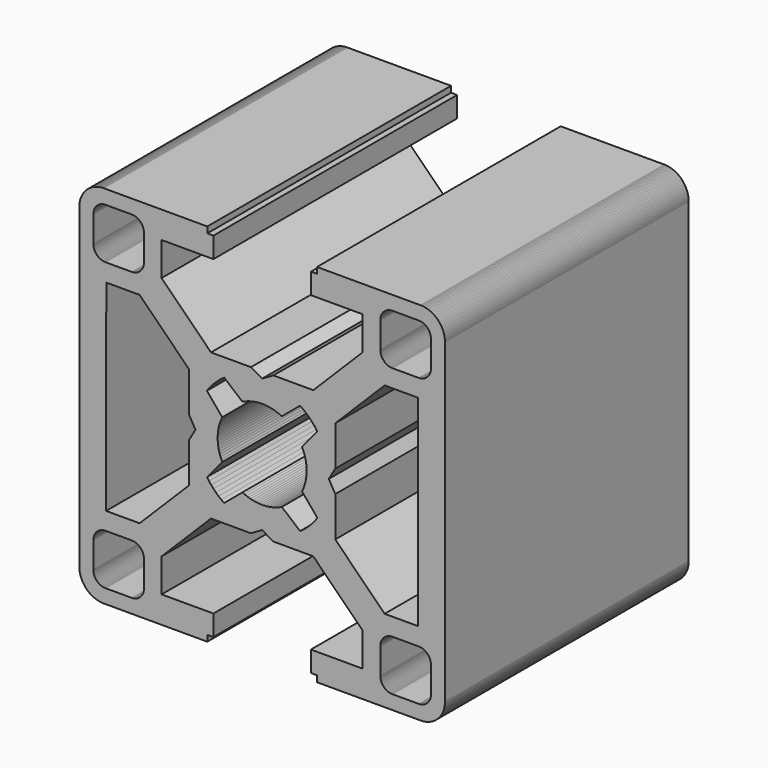
from build123d import *

# Parameters (mm, degrees)
F1_DEPTH = 25


with BuildPart() as f1:
    # F0 (on Front) → F1 (new body)
    with BuildSketch(Plane.XZ):
        Polygon((-15, -13), (-14.997986, -13.089729), (-14.991948, -13.179278), (-14.981899, -13.268467), (-14.967859, -13.357114), (-14.949856, -13.445042), (-14.927926, -13.532074), (-14.902113, -13.618034), (-14.87247, -13.702749), (-14.839056, -13.78605), (-14.801938, -13.867767), (-14.761191, -13.947738), (-14.716898, -14.025799), (-14.669147, -14.101794), (-14.618034, -14.17557), (-14.563663, -14.24698), (-14.506143, -14.315878), (-14.44559, -14.382125), (-14.382125, -14.44559), (-14.315878, -14.506143), (-14.24698, -14.563663), (-14.17557, -14.618034), (-14.101794, -14.669147), (-14.025799, -14.716898), (-13.947738, -14.761191), (-13.867767, -14.801938), (-13.78605, -14.839056), (-13.702749, -14.87247), (-13.618034, -14.902113), (-13.532074, -14.927926), (-13.445042, -14.949856), (-13.357114, -14.967859), (-13.268467, -14.981899), (-13.179278, -14.991948), (-13.089729, -14.997986), (-13, -15), (-4.5, -15), (-4.5, -14.5), (-4, -14.5), (-4, -12.8), (-8.25, -12.803123), (-8.25, -10.053123), (-4.196877, -6), (-0.919615, -6), (0, -5.46906), (0.919615, -6), (4.196877, -6), (8.25, -10.053123), (8.25, -12.803123), (4, -12.8), (4, -14.5), (4.5, -14.5), (4.5, -15), (13, -15), (13.089729, -14.997986), (13.179278, -14.991948), (13.268467, -14.981899), (13.357114, -14.967859), (13.445042, -14.949856), (13.532074, -14.927926), (13.618034, -14.902113), (13.702749, -14.87247), (13.78605, -14.839056), (13.867767, -14.801938), (13.947738, -14.761191), (14.025799, -14.716898), (14.101794, -14.669147), (14.17557, -14.618034), (14.24698, -14.563663), (14.315878, -14.506143), (14.382125, -14.44559), (14.44559, -14.382125), (14.506143, -14.315878), (14.563663, -14.24698), (14.618034, -14.17557), (14.669147, -14.101794), (14.716898, -14.025799), (14.761191, -13.947738), (14.801938, -13.867767), (14.839056, -13.78605), (14.87247, -13.702749), (14.902113, -13.618034), (14.927926, -13.532074), (14.949856, -13.445042), (14.967859, -13.357114), (14.981899, -13.268467), (14.991948, -13.179278), (14.997986, -13.089729), (15, -13), (15, 13), (14.997986, 13.089729), (14.991948, 13.179278), (14.981899, 13.268467), (14.967859, 13.357114), (14.949856, 13.445042), (14.927926, 13.532074), (14.902113, 13.618034), (14.87247, 13.702749), (14.839056, 13.78605), (14.801938, 13.867767), (14.761191, 13.947738), (14.716898, 14.025799), (14.669147, 14.101794), (14.618034, 14.17557), (14.563663, 14.24698), (14.506143, 14.315878), (14.44559, 14.382125), (14.382125, 14.44559), (14.315878, 14.506143), (14.24698, 14.563663), (14.17557, 14.618034), (14.101794, 14.669147), (14.025799, 14.716898), (13.947738, 14.761191), (13.867767, 14.801938), (13.78605, 14.839056), (13.702749, 14.87247), (13.618034, 14.902113), (13.532074, 14.927926), (13.445042, 14.949856), (13.357114, 14.967859), (13.268467, 14.981899), (13.179278, 14.991948), (13.089729, 14.997986), (13, 15), (4.5, 15), (4.5, 14.5), (4, 14.5), (4, 12.8), (8.25, 12.803123), (8.25, 10.053123), (4.196877, 6), (0.919615, 6), (0, 5.46906), (-0.919615, 6), (-4.196877, 6), (-8.25, 10.053123), (-8.25, 12.803123), (-4, 12.8), (-4, 14.5), (-4.5, 14.5), (-4.5, 15), (-13, 15), (-13.089729, 14.997986), (-13.179278, 14.991948), (-13.268467, 14.981899), (-13.357114, 14.967859), (-13.445042, 14.949856), (-13.532074, 14.927926), (-13.618034, 14.902113), (-13.702749, 14.87247), (-13.78605, 14.839056), (-13.867767, 14.801938), (-13.947738, 14.761191), (-14.025799, 14.716898), (-14.101794, 14.669147), (-14.17557, 14.618034), (-14.24698, 14.563663), (-14.315878, 14.506143), (-14.382125, 14.44559), (-14.44559, 14.382125), (-14.506143, 14.315878), (-14.563663, 14.24698), (-14.618034, 14.17557), (-14.669147, 14.101794), (-14.716898, 14.025799), (-14.761191, 13.947738), (-14.801938, 13.867767), (-14.839056, 13.78605), (-14.87247, 13.702749), (-14.902113, 13.618034), (-14.927926, 13.532074), (-14.949856, 13.445042), (-14.967859, 13.357114), (-14.981899, 13.268467), (-14.991948, 13.179278), (-14.997986, 13.089729), (-15, 13), align=None)
        Polygon((-13.845974, -12.939639), (-13.848993, -12.894865), (-13.85, -12.85), (-13.85, -10.7), (-13.848993, -10.655135), (-13.845974, -10.610361), (-13.84095, -10.565766), (-13.83393, -10.521443), (-13.824928, -10.477479), (-13.813963, -10.433963), (-13.801057, -10.390983), (-13.786235, -10.348625), (-13.769527, -10.306975), (-13.750969, -10.266116), (-13.730596, -10.226131), (-13.708448, -10.1871), (-13.684573, -10.149103), (-13.659017, -10.112215), (-13.631831, -10.07651), (-13.603071, -10.042061), (-13.572795, -10.008937), (-13.541062, -9.977205), (-13.507938, -9.946929), (-13.47349, -9.918168), (-13.437785, -9.890983), (-13.400897, -9.865427), (-13.362899, -9.841551), (-13.323869, -9.819405), (-13.283884, -9.799031), (-13.243025, -9.780472), (-13.201375, -9.763765), (-13.159017, -9.748943), (-13.116036, -9.736037), (-13.072521, -9.725072), (-13.028557, -9.71607), (-12.984233, -9.70905), (-12.939639, -9.704025), (-12.894865, -9.701007), (-12.85, -9.7), (-10.7, -9.7), (-10.655135, -9.701007), (-10.610361, -9.704025), (-10.565766, -9.70905), (-10.521443, -9.71607), (-10.477479, -9.725072), (-10.433963, -9.736037), (-10.390983, -9.748943), (-10.348625, -9.763765), (-10.306975, -9.780472), (-10.266116, -9.799031), (-10.226131, -9.819405), (-10.1871, -9.841551), (-10.149103, -9.865427), (-10.112215, -9.890983), (-10.07651, -9.918168), (-10.042061, -9.946929), (-10.008937, -9.977205), (-9.977205, -10.008937), (-9.946929, -10.042061), (-9.918168, -10.07651), (-9.890983, -10.112215), (-9.865427, -10.149103), (-9.841551, -10.1871), (-9.819405, -10.226131), (-9.799031, -10.266116), (-9.780472, -10.306975), (-9.763765, -10.348625), (-9.748943, -10.390983), (-9.736037, -10.433963), (-9.725072, -10.477479), (-9.71607, -10.521443), (-9.70905, -10.565766), (-9.704025, -10.610361), (-9.701007, -10.655135), (-9.7, -10.7), (-9.7, -12.85), (-9.701007, -12.894865), (-9.704025, -12.939639), (-9.70905, -12.984233), (-9.71607, -13.028557), (-9.725072, -13.072521), (-9.736037, -13.116036), (-9.748943, -13.159017), (-9.763765, -13.201375), (-9.780472, -13.243025), (-9.799031, -13.283884), (-9.819405, -13.323869), (-9.841551, -13.362899), (-9.865427, -13.400897), (-9.890983, -13.437785), (-9.918168, -13.47349), (-9.946929, -13.507938), (-9.977205, -13.541062), (-10.008937, -13.572795), (-10.042061, -13.603071), (-10.07651, -13.631831), (-10.112215, -13.659017), (-10.149103, -13.684573), (-10.1871, -13.708448), (-10.226131, -13.730596), (-10.266116, -13.750969), (-10.306975, -13.769527), (-10.348625, -13.786235), (-10.390983, -13.801057), (-10.433963, -13.813963), (-10.477479, -13.824928), (-10.521443, -13.83393), (-10.565766, -13.84095), (-10.610361, -13.845974), (-10.655135, -13.848993), (-10.7, -13.85), (-12.85, -13.85), (-12.894865, -13.848993), (-12.939639, -13.845974), (-12.984233, -13.84095), (-13.028557, -13.83393), (-13.072521, -13.824928), (-13.116036, -13.813963), (-13.159017, -13.801057), (-13.201375, -13.786235), (-13.243025, -13.769527), (-13.283884, -13.750969), (-13.323869, -13.730596), (-13.362899, -13.708448), (-13.400897, -13.684573), (-13.437785, -13.659017), (-13.47349, -13.631831), (-13.507938, -13.603071), (-13.541062, -13.572795), (-13.572795, -13.541062), (-13.603071, -13.507938), (-13.631831, -13.47349), (-13.659017, -13.437785), (-13.684573, -13.400897), (-13.708448, -13.362899), (-13.730596, -13.323869), (-13.750969, -13.283884), (-13.769527, -13.243025), (-13.786235, -13.201375), (-13.801057, -13.159017), (-13.813963, -13.116036), (-13.824928, -13.072521), (-13.83393, -13.028557), (-13.84095, -12.984233), align=None, mode=Mode.SUBTRACT)
        Polygon((9.704025, -12.939639), (9.701007, -12.894865), (9.7, -12.85), (9.7, -10.7), (9.701007, -10.655135), (9.704025, -10.610361), (9.70905, -10.565766), (9.71607, -10.521443), (9.725072, -10.477479), (9.736037, -10.433963), (9.748943, -10.390983), (9.763765, -10.348625), (9.780472, -10.306975), (9.799031, -10.266116), (9.819405, -10.226131), (9.841551, -10.1871), (9.865427, -10.149103), (9.890983, -10.112215), (9.918168, -10.07651), (9.946929, -10.042061), (9.977205, -10.008937), (10.008937, -9.977205), (10.042061, -9.946929), (10.07651, -9.918168), (10.112215, -9.890983), (10.149103, -9.865427), (10.1871, -9.841551), (10.226131, -9.819405), (10.266116, -9.799031), (10.306975, -9.780472), (10.348625, -9.763765), (10.390983, -9.748943), (10.433963, -9.736037), (10.477479, -9.725072), (10.521443, -9.71607), (10.565766, -9.70905), (10.610361, -9.704025), (10.655135, -9.701007), (10.7, -9.7), (12.85, -9.7), (12.894865, -9.701007), (12.939639, -9.704025), (12.984233, -9.70905), (13.028557, -9.71607), (13.072521, -9.725072), (13.116036, -9.736037), (13.159017, -9.748943), (13.201375, -9.763765), (13.243025, -9.780472), (13.283884, -9.799031), (13.323869, -9.819405), (13.362899, -9.841551), (13.400897, -9.865427), (13.437785, -9.890983), (13.47349, -9.918168), (13.507938, -9.946929), (13.541062, -9.977205), (13.572795, -10.008937), (13.603071, -10.042061), (13.631831, -10.07651), (13.659017, -10.112215), (13.684573, -10.149103), (13.708448, -10.1871), (13.730596, -10.226131), (13.750969, -10.266116), (13.769527, -10.306975), (13.786235, -10.348625), (13.801057, -10.390983), (13.813963, -10.433963), (13.824928, -10.477479), (13.83393, -10.521443), (13.84095, -10.565766), (13.845974, -10.610361), (13.848993, -10.655135), (13.85, -10.7), (13.85, -12.85), (13.848993, -12.894865), (13.845974, -12.939639), (13.84095, -12.984233), (13.83393, -13.028557), (13.824928, -13.072521), (13.813963, -13.116036), (13.801057, -13.159017), (13.786235, -13.201375), (13.769527, -13.243025), (13.750969, -13.283884), (13.730596, -13.323869), (13.708448, -13.362899), (13.684573, -13.400897), (13.659017, -13.437785), (13.631831, -13.47349), (13.603071, -13.507938), (13.572795, -13.541062), (13.541062, -13.572795), (13.507938, -13.603071), (13.47349, -13.631831), (13.437785, -13.659017), (13.400897, -13.684573), (13.362899, -13.708448), (13.323869, -13.730596), (13.283884, -13.750969), (13.243025, -13.769527), (13.201375, -13.786235), (13.159017, -13.801057), (13.116036, -13.813963), (13.072521, -13.824928), (13.028557, -13.83393), (12.984233, -13.84095), (12.939639, -13.845974), (12.894865, -13.848993), (12.85, -13.85), (10.7, -13.85), (10.655135, -13.848993), (10.610361, -13.845974), (10.565766, -13.84095), (10.521443, -13.83393), (10.477479, -13.824928), (10.433963, -13.813963), (10.390983, -13.801057), (10.348625, -13.786235), (10.306975, -13.769527), (10.266116, -13.750969), (10.226131, -13.730596), (10.1871, -13.708448), (10.149103, -13.684573), (10.112215, -13.659017), (10.07651, -13.631831), (10.042061, -13.603071), (10.008937, -13.572795), (9.977205, -13.541062), (9.946929, -13.507938), (9.918168, -13.47349), (9.890983, -13.437785), (9.865427, -13.400897), (9.841551, -13.362899), (9.819405, -13.323869), (9.799031, -13.283884), (9.780472, -13.243025), (9.763765, -13.201375), (9.748943, -13.159017), (9.736037, -13.116036), (9.725072, -13.072521), (9.71607, -13.028557), (9.70905, -12.984233), align=None, mode=Mode.SUBTRACT)
        Polygon((-6, 0.919615), (-5.46906, 0), (-6, -0.919615), (-6, -4.196877), (-10.053123, -8.25), (-12.803123, -8.25), (-12.790998, 8.25), (-10.053123, 8.25), (-6, 4.196877), align=None, mode=Mode.SUBTRACT)
        Polygon((-13.845974, 10.610361), (-13.848993, 10.655135), (-13.85, 10.7), (-13.85, 12.85), (-13.848993, 12.894865), (-13.845974, 12.939639), (-13.84095, 12.984233), (-13.83393, 13.028557), (-13.824928, 13.072521), (-13.813963, 13.116036), (-13.801057, 13.159017), (-13.786235, 13.201375), (-13.769527, 13.243025), (-13.750969, 13.283884), (-13.730596, 13.323869), (-13.708448, 13.362899), (-13.684573, 13.400897), (-13.659017, 13.437785), (-13.631831, 13.47349), (-13.603071, 13.507938), (-13.572795, 13.541062), (-13.541062, 13.572795), (-13.507938, 13.603071), (-13.47349, 13.631831), (-13.437785, 13.659017), (-13.400897, 13.684573), (-13.362899, 13.708448), (-13.323869, 13.730596), (-13.283884, 13.750969), (-13.243025, 13.769527), (-13.201375, 13.786235), (-13.159017, 13.801057), (-13.116036, 13.813963), (-13.072521, 13.824928), (-13.028557, 13.83393), (-12.984233, 13.84095), (-12.939639, 13.845974), (-12.894865, 13.848993), (-12.85, 13.85), (-10.7, 13.85), (-10.655135, 13.848993), (-10.610361, 13.845974), (-10.565766, 13.84095), (-10.521443, 13.83393), (-10.477479, 13.824928), (-10.433963, 13.813963), (-10.390983, 13.801057), (-10.348625, 13.786235), (-10.306975, 13.769527), (-10.266116, 13.750969), (-10.226131, 13.730596), (-10.1871, 13.708448), (-10.149103, 13.684573), (-10.112215, 13.659017), (-10.07651, 13.631831), (-10.042061, 13.603071), (-10.008937, 13.572795), (-9.977205, 13.541062), (-9.946929, 13.507938), (-9.918168, 13.47349), (-9.890983, 13.437785), (-9.865427, 13.400897), (-9.841551, 13.362899), (-9.819405, 13.323869), (-9.799031, 13.283884), (-9.780472, 13.243025), (-9.763765, 13.201375), (-9.748943, 13.159017), (-9.736037, 13.116036), (-9.725072, 13.072521), (-9.71607, 13.028557), (-9.70905, 12.984233), (-9.704025, 12.939639), (-9.701007, 12.894865), (-9.7, 12.85), (-9.7, 10.7), (-9.701007, 10.655135), (-9.704025, 10.610361), (-9.70905, 10.565766), (-9.71607, 10.521443), (-9.725072, 10.477479), (-9.736037, 10.433963), (-9.748943, 10.390983), (-9.763765, 10.348625), (-9.780472, 10.306975), (-9.799031, 10.266116), (-9.819405, 10.226131), (-9.841551, 10.1871), (-9.865427, 10.149103), (-9.890983, 10.112215), (-9.918168, 10.07651), (-9.946929, 10.042061), (-9.977205, 10.008937), (-10.008937, 9.977205), (-10.042061, 9.946929), (-10.07651, 9.918168), (-10.112215, 9.890983), (-10.149103, 9.865427), (-10.1871, 9.841551), (-10.226131, 9.819405), (-10.266116, 9.799031), (-10.306975, 9.780472), (-10.348625, 9.763765), (-10.390983, 9.748943), (-10.433963, 9.736037), (-10.477479, 9.725072), (-10.521443, 9.71607), (-10.565766, 9.70905), (-10.610361, 9.704025), (-10.655135, 9.701007), (-10.7, 9.7), (-12.85, 9.7), (-12.894865, 9.701007), (-12.939639, 9.704025), (-12.984233, 9.70905), (-13.028557, 9.71607), (-13.072521, 9.725072), (-13.116036, 9.736037), (-13.159017, 9.748943), (-13.201375, 9.763765), (-13.243025, 9.780472), (-13.283884, 9.799031), (-13.323869, 9.819405), (-13.362899, 9.841551), (-13.400897, 9.865427), (-13.437785, 9.890983), (-13.47349, 9.918168), (-13.507938, 9.946929), (-13.541062, 9.977205), (-13.572795, 10.008937), (-13.603071, 10.042061), (-13.631831, 10.07651), (-13.659017, 10.112215), (-13.684573, 10.149103), (-13.708448, 10.1871), (-13.730596, 10.226131), (-13.750969, 10.266116), (-13.769527, 10.306975), (-13.786235, 10.348625), (-13.801057, 10.390983), (-13.813963, 10.433963), (-13.824928, 10.477479), (-13.83393, 10.521443), (-13.84095, 10.565766), align=None, mode=Mode.SUBTRACT)
        Polygon((-3.623419, -0.439702), (-3.640423, -0.264232), (-3.648936, -0.088146), (-3.648936, 0.088146), (-3.640423, 0.264232), (-3.623419, 0.439702), (-3.597961, 0.614146), (-3.564111, 0.787157), (-3.521945, 0.958332), (-3.471564, 1.127272), (-3.413085, 1.293582), (-3.346643, 1.456874), (-3.272394, 1.616767), (-4.531372, 3.117158), (-4.362428, 3.349511), (-4.181583, 3.572725), (-3.98933, 3.786192), (-3.786192, 3.98933), (-3.572725, 4.181583), (-3.349511, 4.362428), (-3.117158, 4.531372), (-1.616767, 3.272394), (-1.456874, 3.346643), (-1.293582, 3.413085), (-1.127272, 3.471564), (-0.958332, 3.521945), (-0.787157, 3.564111), (-0.614146, 3.597961), (-0.439702, 3.623419), (-0.264232, 3.640423), (-0.088146, 3.648936), (0.088146, 3.648936), (0.264232, 3.640423), (0.439702, 3.623419), (0.614146, 3.597961), (0.787157, 3.564111), (0.958332, 3.521945), (1.127272, 3.471564), (1.293582, 3.413085), (1.456874, 3.346643), (1.616767, 3.272394), (3.117158, 4.531372), (3.349511, 4.362428), (3.572725, 4.181583), (3.786192, 3.98933), (3.98933, 3.786192), (4.181583, 3.572725), (4.362428, 3.349511), (4.531372, 3.117158), (3.272394, 1.616767), (3.346643, 1.456874), (3.413085, 1.293582), (3.471564, 1.127272), (3.521945, 0.958332), (3.564111, 0.787157), (3.597961, 0.614146), (3.623419, 0.439702), (3.640423, 0.264232), (3.648936, 0.088146), (3.648936, -0.088146), (3.640423, -0.264232), (3.623419, -0.439702), (3.597961, -0.614146), (3.564111, -0.787157), (3.521945, -0.958332), (3.471564, -1.127272), (3.413085, -1.293582), (3.346643, -1.456874), (3.272394, -1.616767), (4.531372, -3.117158), (4.362428, -3.349511), (4.181583, -3.572725), (3.98933, -3.786192), (3.786192, -3.98933), (3.572725, -4.181583), (3.349511, -4.362428), (3.117158, -4.531372), (1.616767, -3.272394), (1.456874, -3.346643), (1.293582, -3.413085), (1.127272, -3.471564), (0.958332, -3.521945), (0.787157, -3.564111), (0.614146, -3.597961), (0.439702, -3.623419), (0.264232, -3.640423), (0.088146, -3.648936), (-0.088146, -3.648936), (-0.264232, -3.640423), (-0.439702, -3.623419), (-0.614146, -3.597961), (-0.787157, -3.564111), (-0.958332, -3.521945), (-1.127272, -3.471564), (-1.293582, -3.413085), (-1.456874, -3.346643), (-1.616767, -3.272394), (-3.117158, -4.531372), (-3.349511, -4.362428), (-3.572725, -4.181583), (-3.786192, -3.98933), (-3.98933, -3.786192), (-4.181583, -3.572725), (-4.362428, -3.349511), (-4.531372, -3.117158), (-3.272394, -1.616767), (-3.346643, -1.456874), (-3.413085, -1.293582), (-3.471564, -1.127272), (-3.521945, -0.958332), (-3.564111, -0.787157), (-3.597961, -0.614146), align=None, mode=Mode.SUBTRACT)
        Polygon((6, -4.196877), (6, -0.919615), (5.46906, 0), (6, 0.919615), (6, 4.196877), (10.053123, 8.25), (12.803123, 8.25), (12.790998, -8.25), (10.053123, -8.25), align=None, mode=Mode.SUBTRACT)
        Polygon((9.704025, 10.610361), (9.701007, 10.655135), (9.7, 10.7), (9.7, 12.85), (9.701007, 12.894865), (9.704025, 12.939639), (9.70905, 12.984233), (9.71607, 13.028557), (9.725072, 13.072521), (9.736037, 13.116036), (9.748943, 13.159017), (9.763765, 13.201375), (9.780472, 13.243025), (9.799031, 13.283884), (9.819405, 13.323869), (9.841551, 13.362899), (9.865427, 13.400897), (9.890983, 13.437785), (9.918168, 13.47349), (9.946929, 13.507938), (9.977205, 13.541062), (10.008937, 13.572795), (10.042061, 13.603071), (10.07651, 13.631831), (10.112215, 13.659017), (10.149103, 13.684573), (10.1871, 13.708448), (10.226131, 13.730596), (10.266116, 13.750969), (10.306975, 13.769527), (10.348625, 13.786235), (10.390983, 13.801057), (10.433963, 13.813963), (10.477479, 13.824928), (10.521443, 13.83393), (10.565766, 13.84095), (10.610361, 13.845974), (10.655135, 13.848993), (10.7, 13.85), (12.85, 13.85), (12.894865, 13.848993), (12.939639, 13.845974), (12.984233, 13.84095), (13.028557, 13.83393), (13.072521, 13.824928), (13.116036, 13.813963), (13.159017, 13.801057), (13.201375, 13.786235), (13.243025, 13.769527), (13.283884, 13.750969), (13.323869, 13.730596), (13.362899, 13.708448), (13.400897, 13.684573), (13.437785, 13.659017), (13.47349, 13.631831), (13.507938, 13.603071), (13.541062, 13.572795), (13.572795, 13.541062), (13.603071, 13.507938), (13.631831, 13.47349), (13.659017, 13.437785), (13.684573, 13.400897), (13.708448, 13.362899), (13.730596, 13.323869), (13.750969, 13.283884), (13.769527, 13.243025), (13.786235, 13.201375), (13.801057, 13.159017), (13.813963, 13.116036), (13.824928, 13.072521), (13.83393, 13.028557), (13.84095, 12.984233), (13.845974, 12.939639), (13.848993, 12.894865), (13.85, 12.85), (13.85, 10.7), (13.848993, 10.655135), (13.845974, 10.610361), (13.84095, 10.565766), (13.83393, 10.521443), (13.824928, 10.477479), (13.813963, 10.433963), (13.801057, 10.390983), (13.786235, 10.348625), (13.769527, 10.306975), (13.750969, 10.266116), (13.730596, 10.226131), (13.708448, 10.1871), (13.684573, 10.149103), (13.659017, 10.112215), (13.631831, 10.07651), (13.603071, 10.042061), (13.572795, 10.008937), (13.541062, 9.977205), (13.507938, 9.946929), (13.47349, 9.918168), (13.437785, 9.890983), (13.400897, 9.865427), (13.362899, 9.841551), (13.323869, 9.819405), (13.283884, 9.799031), (13.243025, 9.780472), (13.201375, 9.763765), (13.159017, 9.748943), (13.116036, 9.736037), (13.072521, 9.725072), (13.028557, 9.71607), (12.984233, 9.70905), (12.939639, 9.704025), (12.894865, 9.701007), (12.85, 9.7), (10.7, 9.7), (10.655135, 9.701007), (10.610361, 9.704025), (10.565766, 9.70905), (10.521443, 9.71607), (10.477479, 9.725072), (10.433963, 9.736037), (10.390983, 9.748943), (10.348625, 9.763765), (10.306975, 9.780472), (10.266116, 9.799031), (10.226131, 9.819405), (10.1871, 9.841551), (10.149103, 9.865427), (10.112215, 9.890983), (10.07651, 9.918168), (10.042061, 9.946929), (10.008937, 9.977205), (9.977205, 10.008937), (9.946929, 10.042061), (9.918168, 10.07651), (9.890983, 10.112215), (9.865427, 10.149103), (9.841551, 10.1871), (9.819405, 10.226131), (9.799031, 10.266116), (9.780472, 10.306975), (9.763765, 10.348625), (9.748943, 10.390983), (9.736037, 10.433963), (9.725072, 10.477479), (9.71607, 10.521443), (9.70905, 10.565766), align=None, mode=Mode.SUBTRACT)
    extrude(amount=F1_DEPTH)


solid = f1.part
